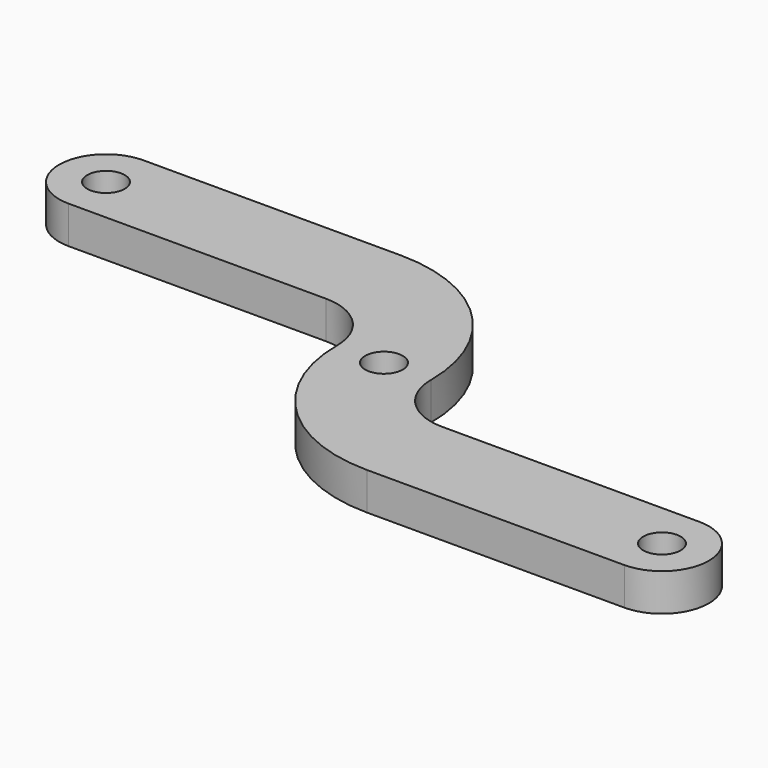
from build123d import *

# Parameters (mm, degrees)
F0_R     = 2
F1_DEPTH = 4


with BuildPart() as f1:
    # F0 (on Top) → F1 (new body)
    with BuildSketch(Plane.XY):
        with BuildLine():
            ThreePointArc((-11, 6), (-6.757359, 4.242641), (-5, 0))
            ThreePointArc((-5, 0), (-0.313708, -11.313708), (11, -16))
            Line((11, -16), (38.457769, -16))
            ThreePointArc((38.457769, -16), (43.457769, -11), (38.457769, -6))
            Line((38.457769, -6), (11, -6))
            ThreePointArc((11, -6), (6.757359, -4.242641), (5, 0))
            ThreePointArc((5, 0), (0.313708, 11.313708), (-11, 16))
            Line((-11, 16), (-38.457769, 16))
            ThreePointArc((-38.457769, 16), (-43.457769, 11), (-38.457769, 6))
            Line((-38.457769, 6), (-11, 6))
        make_face()
        with Locations((38.457769, -11)):
            Circle(F0_R, mode=Mode.SUBTRACT)
        Circle(F0_R, mode=Mode.SUBTRACT)
        with Locations((-38.457769, 11)):
            Circle(F0_R, mode=Mode.SUBTRACT)
    extrude(amount=F1_DEPTH)


solid = f1.part
